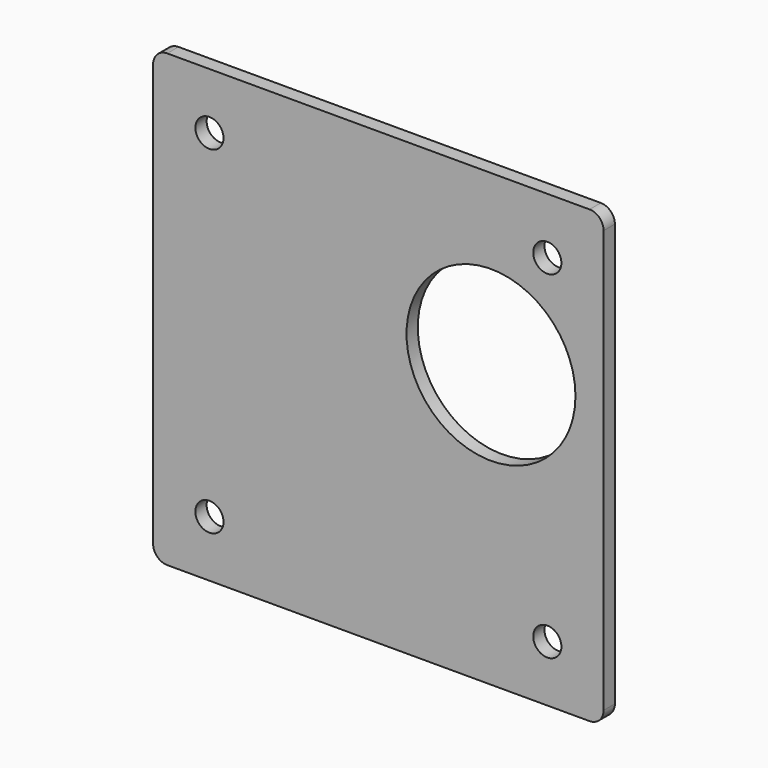
from build123d import *

# Parameters (mm, degrees)
F0_W     = 203.2
F0_H     = 203.2
F1_DEPTH = 6.35
F2_R     = 6.35
F3_DEPTH = 25.4
F4_R     = 6.35
F5_R     = 38.1
F6_DEPTH = 25.4


with BuildPart() as f1:
    # F0 (on Front) → F1 (new body)
    with BuildSketch(Plane.XZ):
        Rectangle(F0_W, F0_H)
    extrude(amount=F1_DEPTH)

    # F2 (on face) → F3 (cut)
    with BuildSketch(Plane.XZ.offset(6.35)):
        with Locations((-76.2, 76.2)):
            Circle(F2_R)
        with Locations((76.2, 76.2)):
            Circle(F2_R)
        with Locations((-76.2, -76.2)):
            Circle(F2_R)
        with Locations((76.2, -76.2)):
            Circle(F2_R)
    extrude(amount=-F3_DEPTH, mode=Mode.SUBTRACT)

    # F4
    f4_edges = [f1.edges().sort_by_distance(p)[0] for p in [
        (101.6, -3.175, 101.6),
        (-101.6, -3.175, 101.6),
        (-101.6, -3.175, -101.6),
        (101.6, -3.175, -101.6),
    ]]
    fillet(f4_edges, radius=F4_R)

    # F5 (on face) → F6 (cut)
    with BuildSketch(Plane.XZ.offset(6.35)):
        with Locations((50.8, 25.4)):
            Circle(F5_R)
    extrude(amount=-F6_DEPTH, mode=Mode.SUBTRACT)


solid = f1.part
